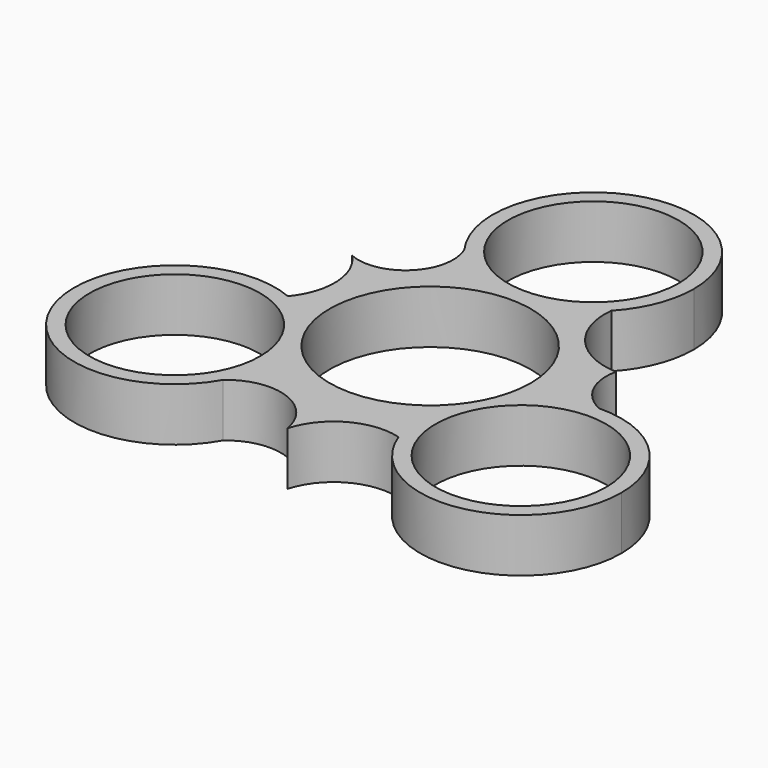
from build123d import *

# Parameters (mm, degrees)
F0_R     = 11.2
F1_DEPTH = 7


with BuildPart() as f1:
    # F0 (on Top) → F1 (new body)
    with BuildSketch(Plane.XY):
        with BuildLine():
            ThreePointArc((10.140133, -8.450899), (-12.411482, 4.493898), (13.2, 0))
            ThreePointArc((13.2, 0), (12.977457, -2.413629), (12.317332, -4.745875))
            ThreePointArc((12.317332, -4.745875), (16.727086, -1.305485), (22.165645, 0))
            ThreePointArc((22.165645, 0), (18.992247, 3.053889), (18.446518, 7.424114))
            ThreePointArc((18.446518, 7.424114), (11.802919, 10.656167), (9.608782, 17.710905))
            ThreePointArc((9.608782, 17.710905), (-0.841952, 13.588271), (-10.682802, 19.007829))
            ThreePointArc((-10.682802, 19.007829), (-11.862909, 12.054078), (-18.776167, 10.656167))
            ThreePointArc((-18.776167, 10.656167), (-16.394376, 5.178266), (-18.282297, -0.488839))
            ThreePointArc((-18.282297, -0.488839), (-12.387933, -5.351975), (-10.176054, -12.666426))
            ThreePointArc((-10.176054, -12.666426), (-10.605131, -16.004618), (-11.864467, -19.125788))
            ThreePointArc((-11.864467, -19.125788), (-4.683804, -17.813616), (0, -23.412337))
            ThreePointArc((0, -23.412337), (3.878012, -18.508514), (10.09119, -17.813616))
            ThreePointArc((10.09119, -17.813616), (9.257646, -13.127772), (10.140133, -8.450899))
        make_face()
        with BuildLine():
            ThreePointArc((12.317332, -4.745875), (11.38052, -6.687582), (10.140133, -8.450899))
            ThreePointArc((10.140133, -8.450899), (9.257646, -13.127772), (10.09119, -17.813616))
            ThreePointArc((10.09119, -17.813616), (24.803224, -26.186671), (35.657465, -13.196774))
            ThreePointArc((35.657465, -13.196774), (31.687524, -3.760354), (22.165645, 0))
            ThreePointArc((22.165645, 0), (16.727086, -1.305485), (12.317332, -4.745875))
        make_face()
        with Locations((22.457465, -13.196774)):
            Circle(F0_R, mode=Mode.SUBTRACT)
        with BuildLine():
            ThreePointArc((-18.282297, -0.488839), (-35.856773, -16.964294), (-11.864467, -19.125788))
            ThreePointArc((-11.864467, -19.125788), (-10.605131, -16.004618), (-10.176054, -12.666426))
            ThreePointArc((-10.176054, -12.666426), (-12.387933, -5.351975), (-18.282297, -0.488839))
        make_face()
        with Locations((-23.376054, -12.666426)):
            Circle(F0_R, mode=Mode.SUBTRACT)
        with BuildLine():
            ThreePointArc((-10.682802, 19.007829), (-0.841952, 13.588271), (9.608782, 17.710905))
            ThreePointArc((9.608782, 17.710905), (12.269391, 21.892918), (13.2, 26.761392))
            ThreePointArc((13.2, 26.761392), (-3.287299, 39.54551), (-11.562677, 20.393935))
            ThreePointArc((-11.562677, 20.393935), (-11.076889, 19.729987), (-10.682802, 19.007829))
        make_face()
        with Locations((0, 26.761392)):
            Circle(F0_R, mode=Mode.SUBTRACT)
        with BuildLine():
            ThreePointArc((-11.562677, 20.393935), (-11.14431, 19.687189), (-10.682802, 19.007829))
            ThreePointArc((-10.682802, 19.007829), (-11.076889, 19.729987), (-11.562677, 20.393935))
        make_face()
    extrude(amount=F1_DEPTH)


solid = f1.part
